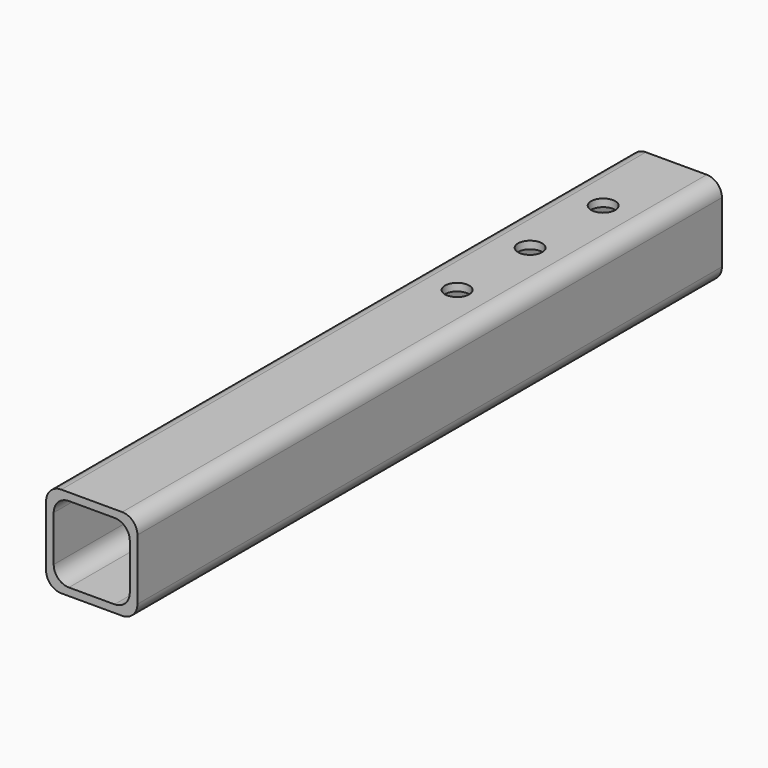
from build123d import *

# Parameters (mm, degrees)
F1_DEPTH = 304.8
F3_D     = 10.0838
F3_DEPTH = 12.7
F3_TIP   = 3.0294791551


with BuildPart() as f1:
    # F0 (on Front) → F1 (new body)
    with BuildSketch(Plane.XZ):
        with BuildLine():
            ThreePointArc((0, 6.35), (1.8598719395, 1.8598719395), (6.35, 0))
            Line((6.35, 0), (31.75, 0))
            ThreePointArc((31.75, 0), (36.2401280605, 1.8598719395), (38.1, 6.35))
            Line((38.1, 6.35), (38.1, 31.75))
            ThreePointArc((38.1, 31.75), (36.2401280605, 36.2401280605), (31.75, 38.1))
            Line((31.75, 38.1), (6.35, 38.1))
            ThreePointArc((6.35, 38.1), (1.8598719395, 36.2401280605), (0, 31.75))
            Line((0, 31.75), (0, 6.35))
        make_face()
        with BuildLine():
            Line((28.575, 3.175), (9.525, 3.175))
            ThreePointArc((9.525, 3.175), (5.0348719395, 5.0348719395), (3.175, 9.525))
            Line((3.175, 9.525), (3.175, 28.575))
            ThreePointArc((3.175, 28.575), (5.0348719395, 33.0651280605), (9.525, 34.925))
            Line((9.525, 34.925), (28.575, 34.925))
            ThreePointArc((28.575, 34.925), (33.0651280605, 33.0651280605), (34.925, 28.575))
            Line((34.925, 28.575), (34.925, 9.525))
            ThreePointArc((34.925, 9.525), (33.0651280605, 5.0348719395), (28.575, 3.175))
        make_face(mode=Mode.SUBTRACT)
    extrude(amount=F1_DEPTH)

    # F3
    with Locations(Plane.XY.offset(38.1)):
        with Locations((19.05, -38.1), (19.05, -76.2), (19.05, -114.3)):
            Hole(F3_D / 2, depth=F3_DEPTH)
            with Locations((0, 0, -(F3_DEPTH + F3_TIP / 2))):  # 118° drill point
                Cone(0, F3_D / 2, F3_TIP, mode=Mode.SUBTRACT)


solid = f1.part
